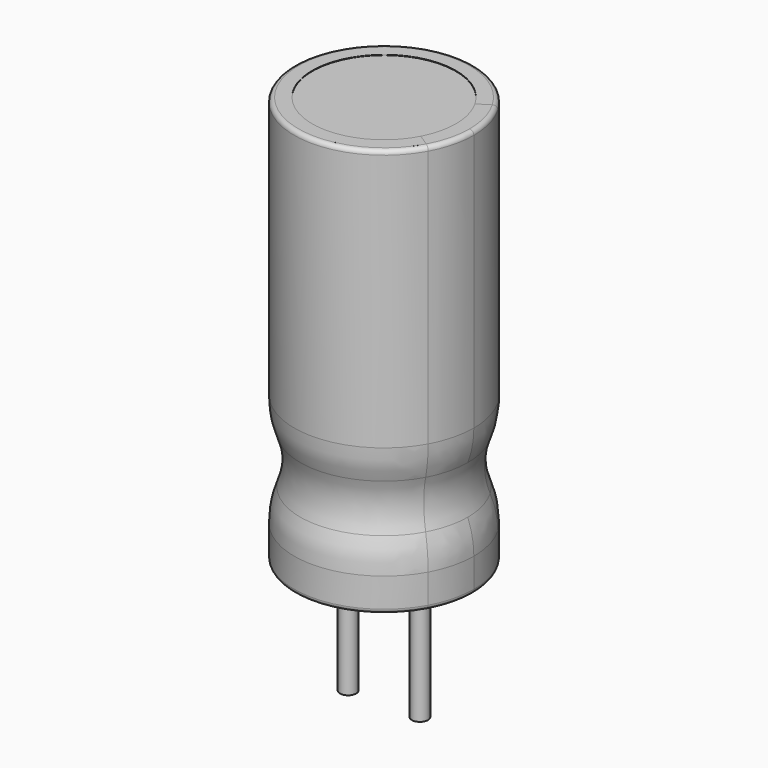
from build123d import *

# Parameters (mm, degrees)
F2_DEPTH = 11.35
F3_DEPTH = 11.36
F4_DEPTH = 11.36
F5_R     = 0.12
F5_2_R   = 0.12
F1_R     = 0.225
F6_DEPTH = 3.5
F8_DEPTH = 0.5
F11_R    = 2.5
F11_2_R  = 2.5


with BuildPart() as f2:
    # F0 (on Top) → F2 (new body)
    with BuildSketch(Plane.XY):
        with BuildLine():
            ThreePointArc((2, 0), (1.9334353676, 0.5116909997), (1.7381723208, 0.9893214761))
            ThreePointArc((1.7381723208, 0.9893214761), (-1.9997568877, -0.0311831677), (1.7681736576, -0.9346453426))
            ThreePointArc((1.7681736576, -0.9346453426), (1.9411784198, -0.4814834809), (2, 0))
        make_face()
    extrude(amount=F2_DEPTH)


with BuildPart() as f3:
    # F0 (on Top) → F3 (new body)
    with BuildSketch(Plane.XY):
        with BuildLine():
            Line((1.7381723208, 0.9893214761), (2.160286451, 1.2582378351))
            ThreePointArc((2.160286451, 1.2582378351), (-2.4998058142, -0.0311591305), (2.1909773231, -1.204000984))
            Line((2.1909773231, -1.204000984), (1.7681736576, -0.9346453426))
            ThreePointArc((1.7681736576, -0.9346453426), (-1.9997568877, -0.0311831677), (1.7381723208, 0.9893214761))
        make_face()
    extrude(amount=F3_DEPTH)

    # F5
    f5_edges = [f3.edges().sort_by_distance(p)[0] for p in [
        (-2.499806, -0.031159, 11.36),
        (-2.499806, -0.031159, 0),
    ]]
    fillet(f5_edges, radius=F5_R)


with BuildPart() as f4:
    # F0 (on Top) → F4 (new body)
    with BuildSketch(Plane.XY):
        with BuildLine():
            ThreePointArc((2.1909773231, -1.204000984), (2.4215122659, -0.6215129493), (2.5, 0))
            ThreePointArc((2.5, 0), (2.4135778553, 0.6516455603), (2.160286451, 1.2582378351))
            Line((2.160286451, 1.2582378351), (1.7381723208, 0.9893214761))
            ThreePointArc((1.7381723208, 0.9893214761), (1.9334353676, 0.5116909997), (2, 0))
            ThreePointArc((2, 0), (1.9411784198, -0.4814834809), (1.7681736576, -0.9346453426))
            Line((1.7681736576, -0.9346453426), (2.1909773231, -1.204000984))
        make_face()
    extrude(amount=F4_DEPTH)

    # F5#2
    f5_2_edges = [f4.edges().sort_by_distance(p)[0] for p in [
        (2.499806, 0.031159, 11.36),
        (2.499806, 0.031159, 0),
    ]]
    fillet(f5_2_edges, radius=F5_2_R)


with BuildPart() as f6:
    # F1 (on Top) → F6 (new body)
    with BuildSketch(Plane.XY):
        with Locations((-1, 0)):
            Circle(F1_R)
    extrude(amount=-F6_DEPTH)


with BuildPart() as f6b:
    # F1 (on Top) → F6, piece 2 (new body)
    with BuildSketch(Plane.XY):
        with Locations((1, 0)):
            Circle(F1_R)
    extrude(amount=-F6_DEPTH)


with BuildPart() as f8:
    # F7 (on face) → F8 (new body)
    with BuildSketch(Plane.XY):
        with BuildLine():
            ThreePointArc((0.672306749, 0), (0.8108511183, 0.3846531404), (1.1941840541, 0.5268095364))
            ThreePointArc((1.1941840541, 0.5268095364), (0, 1.30522176), (-1.1941840541, 0.5268095364))
            ThreePointArc((-1.1941840541, 0.5268095364), (-0.8108511183, 0.3846531404), (-0.672306749, 0))
            ThreePointArc((-0.672306749, 0), (-0.8108511183, -0.3846531404), (-1.1941840541, -0.5268095364))
            ThreePointArc((-1.1941840541, -0.5268095364), (0, -1.30522176), (1.1941840541, -0.5268095364))
            ThreePointArc((1.1941840541, -0.5268095364), (0.8108511183, -0.3846531404), (0.672306749, 0))
        make_face()
    extrude(amount=-F8_DEPTH)


with BuildPart() as f10_tool:
    # F9 (on Front) → F10 (revolve)
    with BuildSketch(Plane.XZ):
        with BuildLine():
            ThreePointArc((-2.5, 1.5), (-2.2069329005, 2.5), (-2.5, 3.5))
            Line((-2.5, 3.5), (-2.5, 1.5))
        make_face()
    revolve(axis=Axis((0, 0, 0), (0, 0, -1)))


with BuildPart() as f3_1:
    add(f3.part)

    # F10: cut by f10_tool
    add(f10_tool.part, mode=Mode.SUBTRACT)

    # F11
    f11_edges = [f3_1.edges().sort_by_distance(p)[0] for p in [
        (-2.499806, -0.031159, 3.5),
        (-2.499806, -0.031159, 1.5),
    ]]
    fillet(f11_edges, radius=F11_R)


with BuildPart() as f4_1:
    add(f4.part)

    # F10: cut by f10_tool
    add(f10_tool.part, mode=Mode.SUBTRACT)

    # F11#2
    f11_2_edges = [f4_1.edges().sort_by_distance(p)[0] for p in [
        (2.499806, 0.031159, 3.5),
        (2.499806, 0.031159, 1.5),
    ]]
    fillet(f11_2_edges, radius=F11_2_R)


solid = Compound([f2.part, f6.part, f6b.part, f8.part, f3_1.part, f4_1.part])
